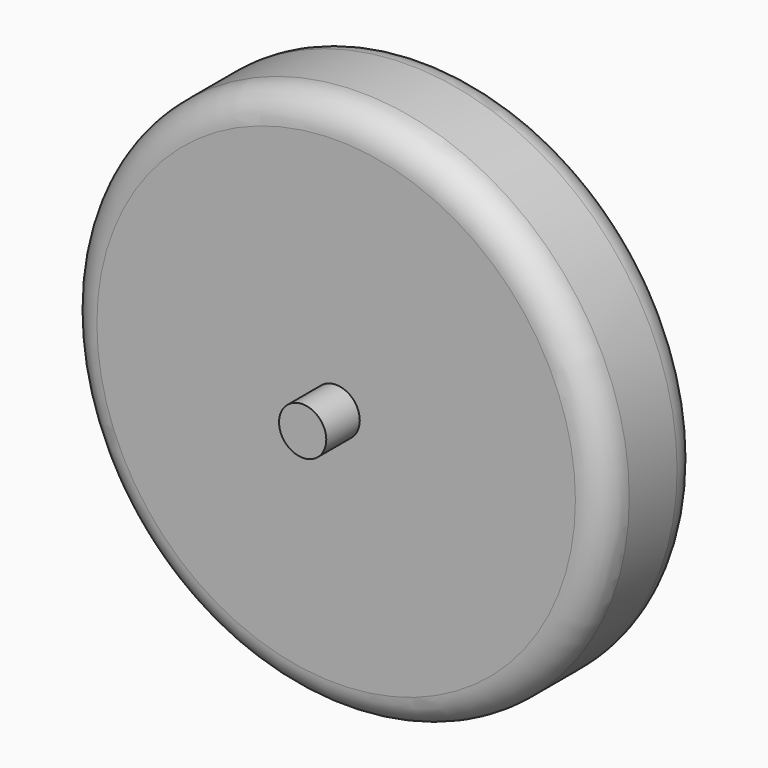
from build123d import *

# Parameters (mm, degrees)
F0_R          = 1.0033
F1_DEPTH      = 4.318
F1_DEPTH_BACK = 4.318
F0_R_2        = 11.43
F2_DEPTH      = 2.54
F2_DEPTH_BACK = 2.54
F3_R          = 1.27


with BuildPart() as f1:
    # F0 (on Front) → F1 (new body, two sides)
    with BuildSketch(Plane.XZ) as f1_sk:
        Circle(F0_R)
    extrude(amount=F1_DEPTH)
    extrude(f1_sk.sketch, amount=-F1_DEPTH_BACK)

    # F0 (on Front) → F2 (join, two sides)
    with BuildSketch(Plane.XZ) as f2_sk:
        Circle(F0_R_2)
        Circle(F0_R, mode=Mode.SUBTRACT)
    extrude(amount=F2_DEPTH)
    extrude(f2_sk.sketch, amount=-F2_DEPTH_BACK)

    # F3
    f3_edges = [f1.edges().sort_by_distance(p)[0] for p in [
        (-11.43, -2.54, 0),
        (-11.43, 2.54, 0),
    ]]
    fillet(f3_edges, radius=F3_R)


solid = f1.part
